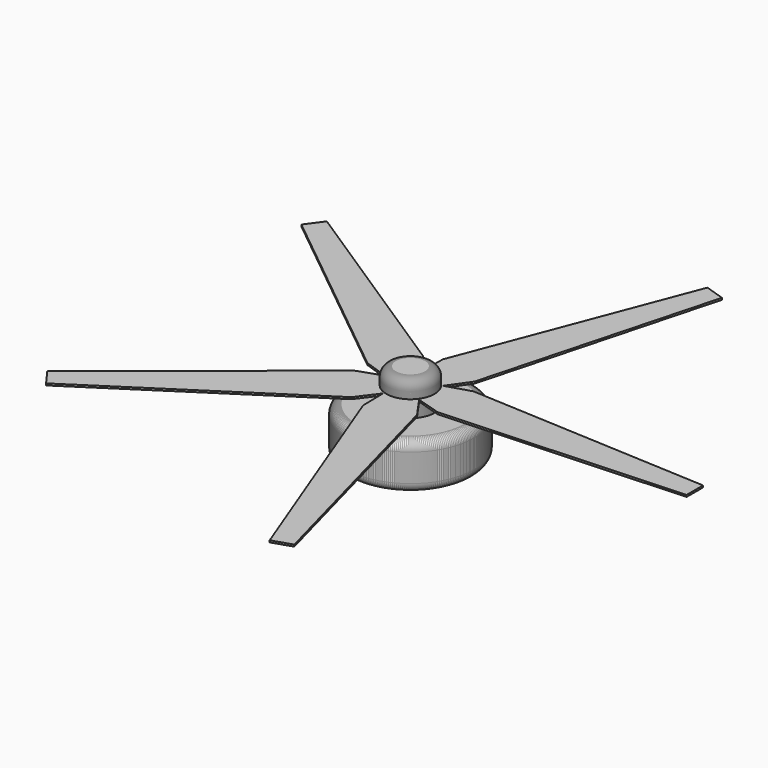
from build123d import *

# Parameters (mm, degrees)
F0_R     = 34.35
F1_DEPTH = 25
F2_R     = 13
F3_DEPTH = 18
F4_R     = 5
F7_DEPTH = 1
F8_COUNT = 5


with BuildPart() as f1:
    # F0 (on Top) → F1 (new body)
    with BuildSketch(Plane.XY):
        Circle(F0_R)
    extrude(amount=F1_DEPTH)

    # F2 (on face) → F3 (join)
    with BuildSketch(Plane.XY.offset(25)):
        Circle(F2_R)
    extrude(amount=F3_DEPTH)

    # F4
    f4_edges = [f1.edges().sort_by_distance(p)[0] for p in [
        (-13, 0, 43),
        (-34.35, 0, 25),
        (-34.35, 0, 0),
    ]]
    fillet(f4_edges, radius=F4_R)

    # F6 (on offset) → F7 (join)
    with BuildSketch(Plane.XY.offset(33)):
        Polygon((4.7444389202, 6.1504994519), (0, 0), (4.7444389202, -6.1504994519), (24.376546964, -12.1662542224), (153.7613421679, -5.5602509528), (153.7613421679, 0), (153.7613421679, 5.5602509528), (24.376546964, 12.1662542224), align=None)
    extrude(amount=F7_DEPTH)


with BuildPart() as f8_1:
    # F8: instance of F1
    add(f1.part.rotate(Axis((0, 0, 43), (0, 0, 1)), 1 * 360 / F8_COUNT))


with BuildPart() as f8_2:
    # F8: instance of F1
    add(f1.part.rotate(Axis((0, 0, 43), (0, 0, 1)), 2 * 360 / F8_COUNT))


with BuildPart() as f8_3:
    # F8: instance of F1
    add(f1.part.rotate(Axis((0, 0, 43), (0, 0, 1)), 3 * 360 / F8_COUNT))


with BuildPart() as f8_4:
    # F8: instance of F1
    add(f1.part.rotate(Axis((0, 0, 43), (0, 0, 1)), 4 * 360 / F8_COUNT))


solid = Compound([f1.part, f8_1.part, f8_2.part, f8_3.part, f8_4.part])
